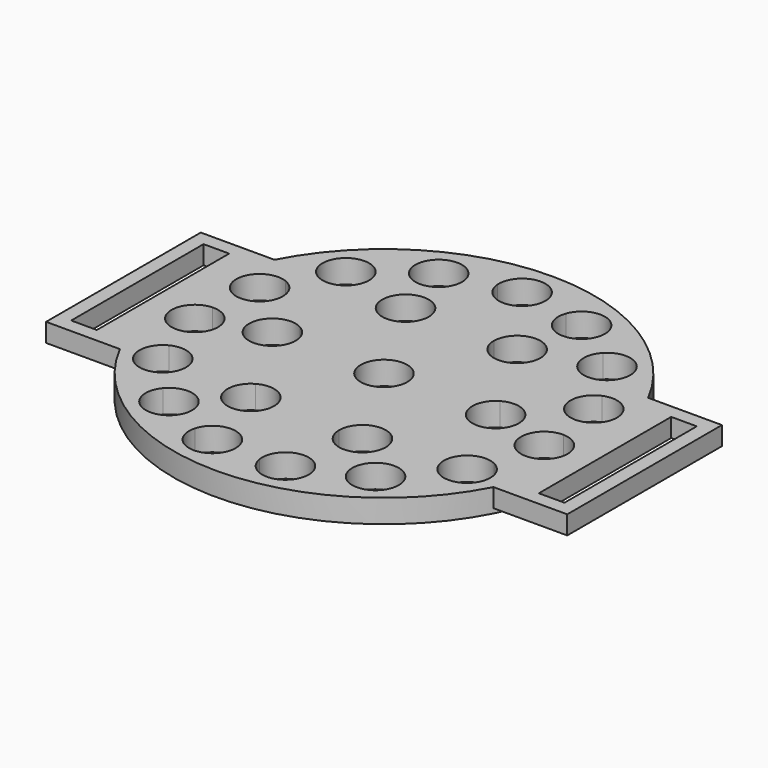
from build123d import *

# Parameters (mm, degrees)
F0_R     = 45.2030485361
F0_R_2   = 5
F1_DEPTH = 5
F2_W     = 5.5
F2_H     = 35.5464573561
F3_DEPTH = 4


with BuildPart() as f1:
    # F0 (on Top) → F1 (new body)
    with BuildSketch(Plane.XY):
        Circle(F0_R)
        with BuildLine():
            ThreePointArc((36.8300827761, 7.0565574258), (37.2595815037, 4.2395266444), (37.4739316415, 1.3980154974))
            ThreePointArc((37.4739316415, 1.3980154974), (40.9139869844, -0.1166869301), (42.3268174051, -3.5998197741))
            ThreePointArc((42.3268174051, -3.5998197741), (40.5630566958, -7.4112178448), (36.5161153038, -8.5336582497))
            ThreePointArc((36.5161153038, -8.5336582497), (35.762692272, -11.2818367947), (34.8027641615, -13.9648704513))
            ThreePointArc((34.8027641615, -13.9648704513), (36.8685312345, -15.8095798691), (37.6355658781, -18.470783411))
            ThreePointArc((37.6355658781, -18.470783411), (35.0086513584, -22.8717452721), (29.8881797569, -22.6483268879))
            ThreePointArc((29.8881797569, -22.6483268879), (28.0821086525, -24.8524681597), (26.1138825848, -26.9131034321))
            ThreePointArc((26.1138825848, -26.9131034321), (26.9950887613, -28.4250139192), (27.3013285259, -30.1479807944))
            ThreePointArc((27.3013285259, -30.1479807944), (23.7075449731, -34.9461632944), (18.0923064045, -32.8468940536))
            ThreePointArc((18.0923064045, -32.8468940536), (15.5458733291, -34.1258820023), (12.909673472, -35.2078163317))
            ThreePointArc((12.909673472, -35.2078163317), (13.0604041393, -35.9028901243), (13.1109888705, -36.6123184126))
            ThreePointArc((13.1109888705, -36.6123184126), (8.4888778779, -41.5980179521), (3.1681089112, -37.3659348328))
            ThreePointArc((3.1681089112, -37.3659348328), (0.3216152773, -37.4986208228), (-2.5267354648, -37.4147779345))
            ThreePointArc((-2.5267354648, -37.4147779345), (-8.4793897063, -41.6455273734), (-12.3038833941, -35.4240660205))
            ThreePointArc((-12.3038833941, -35.4240660205), (-14.9582529778, -34.3875074388), (-17.5262488851, -33.1523845299))
            ThreePointArc((-17.5262488851, -33.1523845299), (-24.6850699528, -34.5962038586), (-25.6484224833, -27.3570543758))
            ThreePointArc((-25.6484224833, -27.3570543758), (-27.6517034015, -25.3304816179), (-29.4953146521, -23.1576426601))
            ThreePointArc((-29.4953146521, -23.1576426601), (-36.6224773476, -21.5648824), (-34.5581163166, -14.5597594984))
            ThreePointArc((-34.5581163166, -14.5597594984), (-35.5639230993, -11.8935854051), (-36.3643725593, -9.1587339938))
            ThreePointArc((-36.3643725593, -9.1587339938), (-42.2275257042, -4.8047968637), (-37.492397888, 0.7550500675))
            ThreePointArc((-37.492397888, 0.7550500675), (-37.3268174051, 3.5998197741), (-36.945700091, 6.4238029846))
            ThreePointArc((-36.945700091, 6.4238029846), (-40.5310512416, 12.7860817006), (-33.943903257, 15.9393046173))
            ThreePointArc((-33.943903257, 15.9393046173), (-32.6355658781, 18.470783411), (-31.1387804359, 20.8956060684))
            ThreePointArc((-31.1387804359, 20.8956060684), (-31.8263898062, 28.166130581), (-24.526199382, 28.3675085947))
            ThreePointArc((-24.526199382, 28.3675085947), (-22.3013285259, 30.1479807944), (-19.9476827564, 31.7543690325))
            ThreePointArc((-19.9476827564, 31.7543690325), (-17.6186564397, 38.6759996026), (-10.8676928205, 35.8907126254))
            ThreePointArc((-10.8676928205, 35.8907126254), (-8.1109888705, 36.6123184126), (-5.3074495093, 37.1225131114))
            ThreePointArc((-5.3074495093, 37.1225131114), (-0.5098024711, 42.4950781258), (4.6783847227, 37.4986208228))
            ThreePointArc((4.6783847227, 37.4986208228), (4.6762722357, 37.3532922036), (4.6699365597, 37.2080863863))
            ThreePointArc((4.6699365597, 37.2080863863), (7.4818144468, 36.7460535648), (10.2504899745, 36.0718374259))
            ThreePointArc((10.2504899745, 36.0718374259), (15.8130000116, 39.3139064795), (19.9582529778, 34.3875074388))
            ThreePointArc((19.9582529778, 34.3875074388), (19.8167091384, 33.2062353552), (19.4000914836, 32.0918439861))
            ThreePointArc((19.4000914836, 32.0918439861), (21.780944076, 30.5260622282), (24.036026619, 28.7840133471))
            ThreePointArc((24.036026619, 28.7840133471), (29.5120281161, 29.9715151188), (32.6517034015, 25.3304816179))
            ThreePointArc((32.6517034015, 25.3304816179), (32.1583903621, 23.1648933284), (30.7757943457, 21.4266302155))
            ThreePointArc((30.7757943457, 21.4266302155), (32.3139506008, 19.0278374118), (33.6655159007, 16.5191718661))
            ThreePointArc((33.6655159007, 16.5191718661), (38.3485203778, 16.046417932), (40.5639230993, 11.8935854051))
            ThreePointArc((40.5639230993, 11.8935854051), (39.5218770141, 8.8383275096), (36.8300827761, 7.0565574258))
        make_face(mode=Mode.SUBTRACT)
        with BuildLine():
            ThreePointArc((36.5161153038, -8.5336582497), (32.3499084178, -3.1198438042), (37.4739316415, 1.3980154974))
            ThreePointArc((37.4739316415, 1.3980154974), (37.2595815037, 4.2395266444), (36.8300827761, 7.0565574258))
            ThreePointArc((36.8300827761, 7.0565574258), (30.822066686, 10.3077740177), (33.6655159007, 16.5191718661))
            ThreePointArc((33.6655159007, 16.5191718661), (32.3139506008, 19.0278374118), (30.7757943457, 21.4266302155))
            ThreePointArc((30.7757943457, 21.4266302155), (23.9648096146, 21.9530840689), (24.036026619, 28.7840133471))
            ThreePointArc((24.036026619, 28.7840133471), (21.780944076, 30.5260622282), (19.4000914836, 32.0918439861))
            ThreePointArc((19.4000914836, 32.0918439861), (12.9638192474, 29.802506447), (10.2504899745, 36.0718374259))
            ThreePointArc((10.2504899745, 36.0718374259), (7.4818144468, 36.7460535648), (4.6699365597, 37.2080863863))
            ThreePointArc((4.6699365597, 37.2080863863), (-0.2787332403, 32.4988047131), (-5.3074495093, 37.1225131114))
            ThreePointArc((-5.3074495093, 37.1225131114), (-8.1109888705, 36.6123184126), (-10.8676928205, 35.8907126254))
            ThreePointArc((-10.8676928205, 35.8907126254), (-10.6269861306, 35.0228484054), (-10.5458733291, 34.1258820023))
            ThreePointArc((-10.5458733291, 34.1258820023), (-14.3229765911, 29.2777355969), (-19.9476827564, 31.7543690325))
            ThreePointArc((-19.9476827564, 31.7543690325), (-22.3013285259, 30.1479807944), (-24.526199382, 28.3675085947))
            ThreePointArc((-24.526199382, 28.3675085947), (-23.4572007425, 26.7525278492), (-23.0821086525, 24.8524681597))
            ThreePointArc((-23.0821086525, 24.8524681597), (-25.8779488258, 20.3645199137), (-31.1387804359, 20.8956060684))
            ThreePointArc((-31.1387804359, 20.8956060684), (-32.6355658781, 18.470783411), (-33.943903257, 15.9393046173))
            ThreePointArc((-33.943903257, 15.9393046173), (-31.6338943189, 14.1019480447), (-30.762692272, 11.2818367947))
            ThreePointArc((-30.762692272, 11.2818367947), (-32.6736017177, 7.3502315821), (-36.945700091, 6.4238029846))
            ThreePointArc((-36.945700091, 6.4238029846), (-37.3268174051, 3.5998197741), (-37.492397888, 0.7550500675))
            ThreePointArc((-37.492397888, 0.7550500675), (-33.8073417903, -0.6226162279), (-32.2595815037, -4.2395266444))
            ThreePointArc((-32.2595815037, -4.2395266444), (-33.4205683022, -7.4429588099), (-36.3643725593, -9.1587339938))
            ThreePointArc((-36.3643725593, -9.1587339938), (-35.5639230993, -11.8935854051), (-34.5581163166, -14.5597594984))
            ThreePointArc((-34.5581163166, -14.5597594984), (-29.6891485681, -14.7722041699), (-27.3139506008, -19.0278374118))
            ThreePointArc((-27.3139506008, -19.0278374118), (-27.8927980506, -21.3630911728), (-29.4953146521, -23.1576426601))
            ThreePointArc((-29.4953146521, -23.1576426601), (-27.6517034015, -25.3304816179), (-25.6484224833, -27.3570543758))
            ThreePointArc((-25.6484224833, -27.3570543758), (-20.0982961682, -25.8176977544), (-16.780944076, -30.5260622282))
            ThreePointArc((-16.780944076, -30.5260622282), (-16.9708777586, -31.8910757896), (-17.5262488851, -33.1523845299))
            ThreePointArc((-17.5262488851, -33.1523845299), (-14.9582529778, -34.3875074388), (-12.3038833941, -35.4240660205))
            ThreePointArc((-12.3038833941, -35.4240660205), (-6.8148604516, -31.7907359798), (-2.4818144468, -36.7460535648))
            ThreePointArc((-2.4818144468, -36.7460535648), (-2.4930573415, -37.0811692838), (-2.5267354648, -37.4147779345))
            ThreePointArc((-2.5267354648, -37.4147779345), (0.3216152773, -37.4986208228), (3.1681089112, -37.3659348328))
            ThreePointArc((3.1681089112, -37.3659348328), (7.0295236877, -31.7306759576), (12.909673472, -35.2078163317))
            ThreePointArc((12.909673472, -35.2078163317), (15.5458733291, -34.1258820023), (18.0923064045, -32.8468940536))
            ThreePointArc((18.0923064045, -32.8468940536), (19.3278180558, -26.1282500218), (26.1138825848, -26.9131034321))
            ThreePointArc((26.1138825848, -26.9131034321), (28.0821086525, -24.8524681597), (29.8881797569, -22.6483268879))
            ThreePointArc((29.8881797569, -22.6483268879), (28.2841570943, -16.0080122895), (34.8027641615, -13.9648704513))
            ThreePointArc((34.8027641615, -13.9648704513), (35.762692272, -11.2818367947), (36.5161153038, -8.5336582497))
        make_face()
        with BuildLine():
            ThreePointArc((-14.4934291692, 16.4431016591), (-14.4934291692, 25.103355697), (-6.9934291692, 20.7732286781))
            Line((-6.9934291692, 20.7732286781), (6.9934291692, 20.7732286781))
            ThreePointArc((6.9934291692, 20.7732286781), (11.9934291692, 25.7732286781), (16.9934291692, 20.7732286781))
            ThreePointArc((16.9934291692, 20.7732286781), (16.3235561881, 18.2732286781), (14.4934291692, 16.4431016591))
            Line((14.4934291692, 16.4431016591), (21.4868583384, 4.3301270189))
            ThreePointArc((21.4868583384, 4.3301270189), (26.4868583384, 4.3301270189), (28.9868583384, 0))
            ThreePointArc((28.9868583384, 0), (26.4868583384, -4.3301270189), (21.4868583384, -4.3301270189))
            Line((21.4868583384, -4.3301270189), (14.4934291692, -16.4431016591))
            ThreePointArc((14.4934291692, -16.4431016591), (16.3235561881, -18.2732286781), (16.9934291692, -20.7732286781))
            ThreePointArc((16.9934291692, -20.7732286781), (11.9934291692, -25.7732286781), (6.9934291692, -20.7732286781))
            Line((6.9934291692, -20.7732286781), (-6.9934291692, -20.7732286781))
            ThreePointArc((-6.9934291692, -20.7732286781), (-14.4934291692, -25.103355697), (-14.4934291692, -16.4431016591))
            Line((-14.4934291692, -16.4431016591), (-21.4868583384, -4.3301270189))
            ThreePointArc((-21.4868583384, -4.3301270189), (-28.9868583384, 0), (-21.4868583384, 4.3301270189))
            Line((-21.4868583384, 4.3301270189), (-14.4934291692, 16.4431016591))
        make_face(mode=Mode.SUBTRACT)
        with BuildLine():
            Line((6.9934291692, 20.7732286781), (-6.9934291692, 20.7732286781))
            ThreePointArc((-6.9934291692, 20.7732286781), (-9.4934291692, 16.4431016591), (-14.4934291692, 16.4431016591))
            Line((-14.4934291692, 16.4431016591), (-21.4868583384, 4.3301270189))
            ThreePointArc((-21.4868583384, 4.3301270189), (-19.6567313195, 2.5), (-18.9868583384, 0))
            ThreePointArc((-18.9868583384, 0), (-19.6567313195, -2.5), (-21.4868583384, -4.3301270189))
            Line((-21.4868583384, -4.3301270189), (-14.4934291692, -16.4431016591))
            ThreePointArc((-14.4934291692, -16.4431016591), (-9.4934291692, -16.4431016591), (-6.9934291692, -20.7732286781))
            Line((-6.9934291692, -20.7732286781), (6.9934291692, -20.7732286781))
            ThreePointArc((6.9934291692, -20.7732286781), (9.4934291692, -16.4431016591), (14.4934291692, -16.4431016591))
            Line((14.4934291692, -16.4431016591), (21.4868583384, -4.3301270189))
            ThreePointArc((21.4868583384, -4.3301270189), (18.9868583384, 0), (21.4868583384, 4.3301270189))
            Line((21.4868583384, 4.3301270189), (14.4934291692, 16.4431016591))
            ThreePointArc((14.4934291692, 16.4431016591), (9.4934291692, 16.4431016591), (6.9934291692, 20.7732286781))
        make_face()
        Circle(F0_R_2, mode=Mode.SUBTRACT)
    extrude(amount=F1_DEPTH)

    # F2 (on face) → F3 (join)
    with BuildSketch(Plane.XY.offset(5)):
        with BuildLine():
            ThreePointArc((-40.1470866595, -20.7732286781), (-45.2030485361, 0), (-40.1470866595, 20.7732286781))
            Line((-40.1470866595, 20.7732286781), (-55.9934291692, 20.7732286781))
            Line((-55.9934291692, 20.7732286781), (-55.9934291692, -20.7732286781))
            Line((-55.9934291692, -20.7732286781), (-40.1470866595, -20.7732286781))
        make_face()
        with Locations((-50.2434291692, 0)):
            Rectangle(F2_W, F2_H, mode=Mode.SUBTRACT)
        with BuildLine():
            ThreePointArc((40.1470866595, 20.7732286781), (43.9208737607, 10.6898290469), (45.2030485361, 0))
            ThreePointArc((45.2030485361, 0), (43.9208737607, -10.6898290469), (40.1470866595, -20.7732286781))
            Line((40.1470866595, -20.7732286781), (55.9934291692, -20.7732286781))
            Line((55.9934291692, -20.7732286781), (55.9934291692, 20.7732286781))
            Line((55.9934291692, 20.7732286781), (40.1470866595, 20.7732286781))
        make_face()
        with Locations((50.2434291692, 0)):
            Rectangle(F2_W, F2_H, mode=Mode.SUBTRACT)
    extrude(amount=-F3_DEPTH)


solid = f1.part
